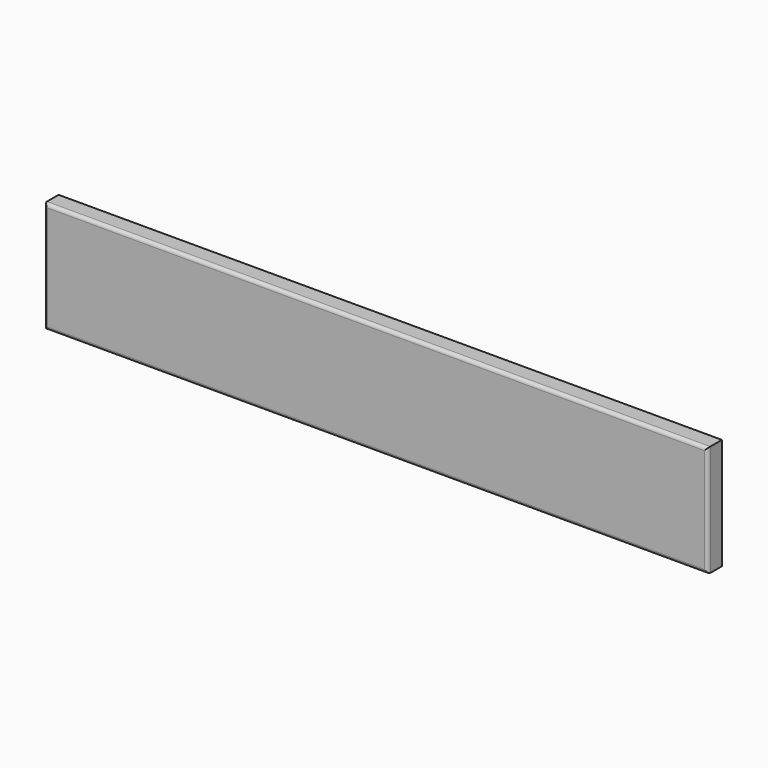
from build123d import *

# Parameters (mm, degrees)
F0_W     = 53.6684691906
F0_H     = 36.3845862448
F1_DEPTH = 16
F2_DEPTH = 396
F3_DEPTH = 100
F4_DEPTH = 200
F5_R     = 3


with BuildPart() as f1:
    # F0 (on Front) → F1 (new body)
    with BuildSketch(Plane.XZ):
        with Locations((26.8342345953, 18.1922931224)):
            Rectangle(F0_W, F0_H)
    extrude(amount=F1_DEPTH)

    # F2 (add): a face of the model
    f2_faces = [f1.faces().sort_by_distance(p)[0] for p in [
        (0, -8, 18.1922931224),
    ]]
    extrude(f2_faces, amount=-F2_DEPTH)

    # F3 (add): a face of the model
    f3_faces = [f1.faces().sort_by_distance(p)[0] for p in [
        (198, -8, 0),
    ]]
    extrude(f3_faces, amount=-F3_DEPTH)

    # F4 (add): a face of the model
    f4_faces = [f1.faces().sort_by_distance(p)[0] for p in [
        (396, -8, 50),
    ]]
    extrude(f4_faces, amount=F4_DEPTH)

    # F5
    f5_edges = [f1.edges().sort_by_distance(p)[0] for p in [
        (0, -16, 50),
        (298, -16, 0),
        (596, -16, 50),
        (298, -16, 100),
    ]]
    fillet(f5_edges, radius=F5_R)


solid = f1.part
